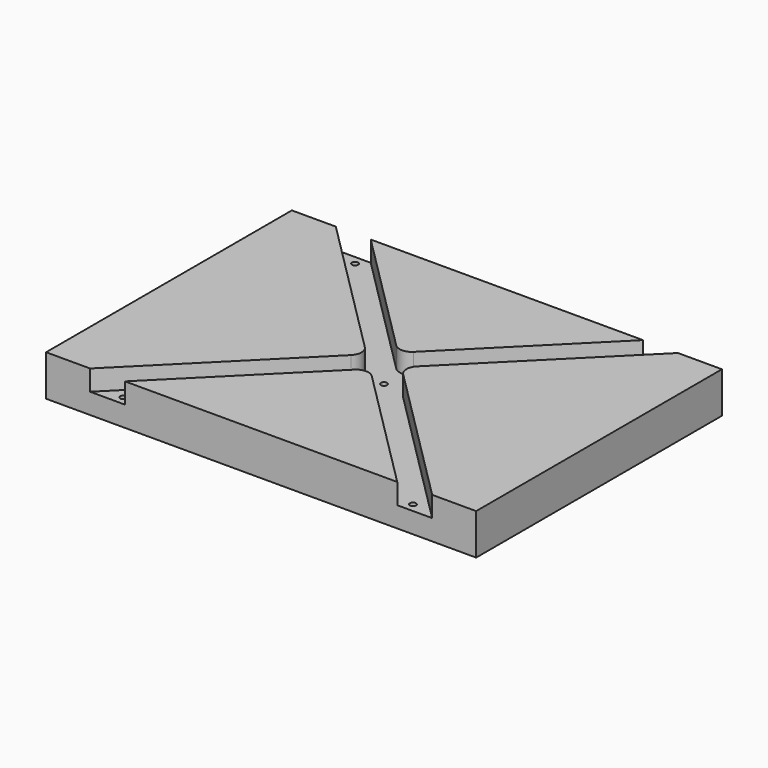
from build123d import *

# Parameters (mm, degrees)
SKETCH_W        = 210
SKETCH_H        = 150
PAD_DEPTH       = 20
POCKET_DEPTH    = 10
SKETCH002_R     = 1.525
HOLE_DEPTH      = 25
POCKET001_DEPTH = 2.5
POCKET002_DEPTH = 3


with BuildPart() as part:
    # Sketch → Pad (new body)
    with BuildSketch(Plane.XY):
        Rectangle(SKETCH_W, SKETCH_H)
    extrude(amount=PAD_DEPTH)

    # Sketch001 → Pocket (cut)
    with BuildSketch(Plane.XY.offset(20)):
        with BuildLine():
            ThreePointArc((12.770342, 4.242634), (11.012983, -6e-06), (12.770342, -4.242647))
            Line((12.770342, -4.242647), (91.340443, -82.812748))
            Line((82.812735, -91.340455), (91.340443, -82.812748))
            Line((4.249755, -12.777475), (82.812735, -91.340455))
            ThreePointArc((4.249755, -12.777475), (0.007386, -11.020116), (-4.235142, -12.777091))
            Line((-4.235142, -12.777091), (-82.813511, -91.341223))
            Line((-82.813511, -91.341223), (-91.340446, -82.812743))
            Line((-12.756861, -4.243395), (-91.340446, -82.812743))
            ThreePointArc((-12.756861, -4.243395), (-10.999118, -0.00038), (-12.756847, 4.242641))
            Line((-85.748585, 77.22163), (-12.756847, 4.242641))
            Line((-85.748585, 77.22163), (-77.221622, 85.750082))
            Line((-77.221622, 85.750082), (-4.23552, 12.776728))
            ThreePointArc((-4.23552, 12.776728), (0.007012, 11.019739), (4.249391, 12.777099))
            Line((77.221622, 85.74933), (4.249391, 12.777099))
            Line((85.74933, 77.221622), (77.221622, 85.74933))
            Line((85.74933, 77.221622), (12.770342, 4.242634))
        make_face()
    extrude(amount=-POCKET_DEPTH, mode=Mode.SUBTRACT)

    # Sketch002 → Hole (cut)
    with BuildSketch(Plane.XY.offset(20)):
        with Locations((70.710678, 70.710678)):
            Circle(SKETCH002_R)
        with Locations((-70.710678, 70.710678)):
            Circle(SKETCH002_R)
        with Locations((70.710678, -70.710678)):
            Circle(SKETCH002_R)
        with Locations((-70.710678, -70.710678)):
            Circle(SKETCH002_R)
        Circle(SKETCH002_R)
        with Locations((10.606602, 10.606602)):
            Circle(SKETCH002_R)
        with Locations((-10.606602, -10.606602)):
            Circle(SKETCH002_R)
    extrude(amount=-HOLE_DEPTH, mode=Mode.SUBTRACT)

    # Sketch003 → Pocket001 (cut)
    with BuildSketch(Plane.XY):
        Polygon((69.1807, 73.360678), (67.650722, 70.710678), (69.1807, 68.060678), (72.240656, 68.060678), (73.770635, 70.710678), (72.240656, 73.360678), align=None)
        Polygon((13.666558, 10.606602), (12.13658, 13.256602), (9.076624, 13.256602), (7.546645, 10.606602), (9.076624, 7.956602), (12.13658, 7.956602), align=None)
        Polygon((3.059956, 0), (1.529978, 2.65), (-1.529978, 2.65), (-3.059956, 0), (-1.529978, -2.65), (1.529978, -2.65), align=None)
        Polygon((-7.546645, -10.606602), (-9.076624, -7.956602), (-12.13658, -7.956602), (-13.666558, -10.606602), (-12.13658, -13.256602), (-9.076624, -13.256602), align=None)
        Polygon((-72.240656, -68.060678), (-73.770635, -70.710678), (-72.240656, -73.360678), (-69.1807, -73.360678), (-67.650722, -70.710678), (-69.1807, -68.060678), align=None)
        Polygon((-67.650722, 70.710678), (-69.1807, 73.360678), (-72.240656, 73.360678), (-73.770635, 70.710678), (-72.240656, 68.060678), (-69.1807, 68.060678), align=None)
        Polygon((73.770635, -70.710678), (72.240656, -68.060678), (69.1807, -68.060678), (67.650722, -70.710678), (69.1807, -73.360678), (72.240656, -73.360678), align=None)
    extrude(amount=POCKET001_DEPTH, mode=Mode.SUBTRACT)

    # Sketch004 → Pocket002 (cut)
    with BuildSketch(Plane.XY):
        with BuildLine():
            Line((-72, -49.5), (-77.401924, -49.5))
            ThreePointArc((-77.401924, -49.5), (-78.5, -48.401924), (-80, -48))
            Line((-80, -48), (-90, -48))
            ThreePointArc((-90, -48), (-91.5, -48.401924), (-92.598076, -49.5))
            Line((-92.598076, -49.5), (-98, -49.5))
            ThreePointArc((-98, -49.5), (-103.12132, -47.37868), (-101, -52.5))
            Line((-101, -52.5), (-101, -61.5))
            ThreePointArc((-101, -61.5), (-103.12132, -66.62132), (-98, -64.5))
            Line((-98, -64.5), (-92.598076, -64.5))
            ThreePointArc((-92.598076, -64.5), (-91.5, -65.598076), (-90, -66))
            Line((-90, -66), (-80, -66))
            ThreePointArc((-80, -66), (-78.5, -65.598076), (-77.401924, -64.5))
            Line((-77.401924, -64.5), (-72, -64.5))
            ThreePointArc((-72, -64.5), (-66.87868, -66.62132), (-69, -61.5))
            Line((-69, -61.5), (-69, -52.5))
            ThreePointArc((-69, -52.5), (-66.87868, -47.37868), (-72, -49.5))
        make_face()
        with BuildLine():
            Line((72, -49.5), (77.401924, -49.5))
            ThreePointArc((80, -48), (78.5, -48.401924), (77.401924, -49.5))
            Line((80, -48), (90, -48))
            ThreePointArc((92.598076, -49.5), (91.5, -48.401924), (90, -48))
            Line((92.598076, -49.5), (98, -49.5))
            ThreePointArc((101, -52.5), (103.12132, -47.37868), (98, -49.5))
            Line((101, -52.5), (101, -61.5))
            ThreePointArc((98, -64.5), (103.12132, -66.62132), (101, -61.5))
            Line((98, -64.5), (92.598076, -64.5))
            ThreePointArc((90, -66), (91.5, -65.598076), (92.598076, -64.5))
            Line((90, -66), (80, -66))
            ThreePointArc((77.401924, -64.5), (78.5, -65.598076), (80, -66))
            Line((77.401924, -64.5), (72, -64.5))
            ThreePointArc((69, -61.5), (66.87868, -66.62132), (72, -64.5))
            Line((69, -61.5), (69, -52.5))
            ThreePointArc((72, -49.5), (66.87868, -47.37868), (69, -52.5))
        make_face()
        with BuildLine():
            Line((-72, 49.5), (-77.401924, 49.5))
            ThreePointArc((-80, 48), (-78.5, 48.401924), (-77.401924, 49.5))
            Line((-80, 48), (-90, 48))
            ThreePointArc((-92.598076, 49.5), (-91.5, 48.401924), (-90, 48))
            Line((-92.598076, 49.5), (-98, 49.5))
            ThreePointArc((-101, 52.5), (-103.12132, 47.37868), (-98, 49.5))
            Line((-101, 52.5), (-101, 61.5))
            ThreePointArc((-98, 64.5), (-103.12132, 66.62132), (-101, 61.5))
            Line((-98, 64.5), (-92.598076, 64.5))
            ThreePointArc((-90, 66), (-91.5, 65.598076), (-92.598076, 64.5))
            Line((-90, 66), (-80, 66))
            ThreePointArc((-77.401924, 64.5), (-78.5, 65.598076), (-80, 66))
            Line((-77.401924, 64.5), (-72, 64.5))
            ThreePointArc((-69, 61.5), (-66.87868, 66.62132), (-72, 64.5))
            Line((-69, 61.5), (-69, 52.5))
            ThreePointArc((-72, 49.5), (-66.87868, 47.37868), (-69, 52.5))
        make_face()
        with BuildLine():
            Line((72, 49.5), (77.401924, 49.5))
            ThreePointArc((77.401924, 49.5), (78.5, 48.401924), (80, 48))
            Line((80, 48), (90, 48))
            ThreePointArc((90, 48), (91.5, 48.401924), (92.598076, 49.5))
            Line((92.598076, 49.5), (98, 49.5))
            ThreePointArc((98, 49.5), (103.12132, 47.37868), (101, 52.5))
            Line((101, 52.5), (101, 61.5))
            ThreePointArc((101, 61.5), (103.12132, 66.62132), (98, 64.5))
            Line((98, 64.5), (92.598076, 64.5))
            ThreePointArc((92.598076, 64.5), (91.5, 65.598076), (90, 66))
            Line((90, 66), (80, 66))
            ThreePointArc((80, 66), (78.5, 65.598076), (77.401924, 64.5))
            Line((77.401924, 64.5), (72, 64.5))
            ThreePointArc((72, 64.5), (66.87868, 66.62132), (69, 61.5))
            Line((69, 61.5), (69, 52.5))
            ThreePointArc((69, 52.5), (66.87868, 47.37868), (72, 49.5))
        make_face()
    extrude(amount=POCKET002_DEPTH, mode=Mode.SUBTRACT)


solid = part.part
